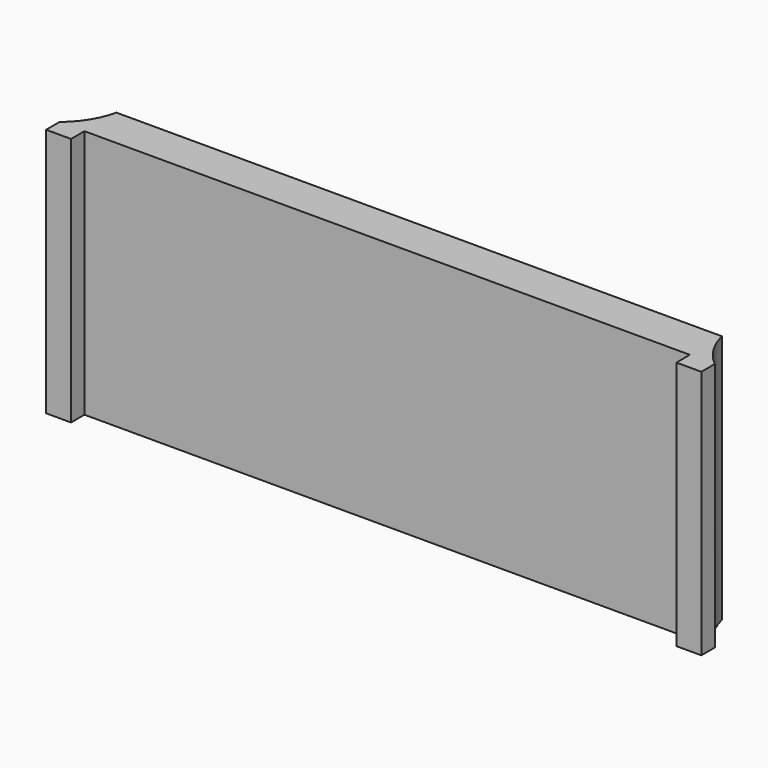
from build123d import *

# Parameters (mm, degrees)
F1_DEPTH = 25.4


with BuildPart() as f1:
    # F0 (on Top) → F1 (new body)
    with BuildSketch(Plane.XY):
        with BuildLine():
            Line((0, 1.709418), (0, 0))
            Line((0, 0), (2.536132, 0))
            Line((2.536132, 0), (2.536132, 1.70942))
            Line((2.536132, 1.70942), (64.130943, 1.70942))
            Line((64.130943, 1.70942), (64.130943, 0))
            Line((64.130943, 0), (66.667075, 0))
            Line((66.667075, 0), (66.667075, 1.709418))
            ThreePointArc((66.667075, 1.709418), (65.063333, 3.541403), (64.130943, 5.790582))
            Line((64.130943, 5.790582), (2.536132, 5.790582))
            ThreePointArc((2.536132, 5.790582), (1.603742, 3.541403), (0, 1.709418))
        make_face()
    extrude(amount=F1_DEPTH)


solid = f1.part
